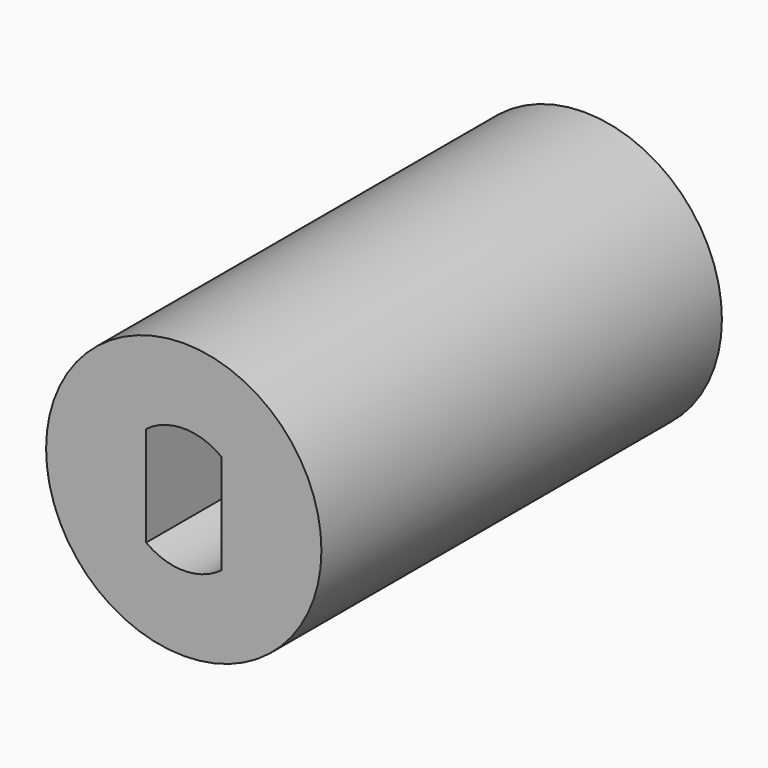
from build123d import *

# Parameters (mm, degrees)
F0_R     = 6.985
F0_R_2   = 3.175
F1_DEPTH = 25.4
F2_DEPTH = 9.525
F4_DEPTH = 25.4
F5_R     = 1.5875
F6_DEPTH = 25.4


with BuildPart() as f1:
    # F0 (on Front) → F1 (new body)
    with BuildSketch(Plane.XZ):
        Circle(F0_R)
        Circle(F0_R_2, mode=Mode.SUBTRACT)
        Circle(F0_R_2)
    extrude(amount=F1_DEPTH)

    # F0 (on Front) → F2 (cut)
    with BuildSketch(Plane.XZ):
        Circle(F0_R_2)
    extrude(amount=F2_DEPTH, mode=Mode.SUBTRACT)

    # F3 (on face) → F4 (cut)
    with BuildSketch(Plane.XZ.offset(25.4)):
        with BuildLine():
            Line((-1.905, 2.54), (-1.905, -2.54))
            ThreePointArc((-1.905, -2.54), (0, -3.175), (1.905, -2.54))
            Line((1.905, -2.54), (1.905, 2.54))
            ThreePointArc((1.905, 2.54), (0, 3.175), (-1.905, 2.54))
        make_face()
    extrude(amount=-F4_DEPTH, mode=Mode.SUBTRACT)

    # F5 (on Top) → F6 (cut)
    with BuildSketch(Plane.XY):
        with Locations((0, -5.08)):
            Circle(F5_R)
    extrude(amount=-F6_DEPTH, mode=Mode.SUBTRACT)


solid = f1.part
